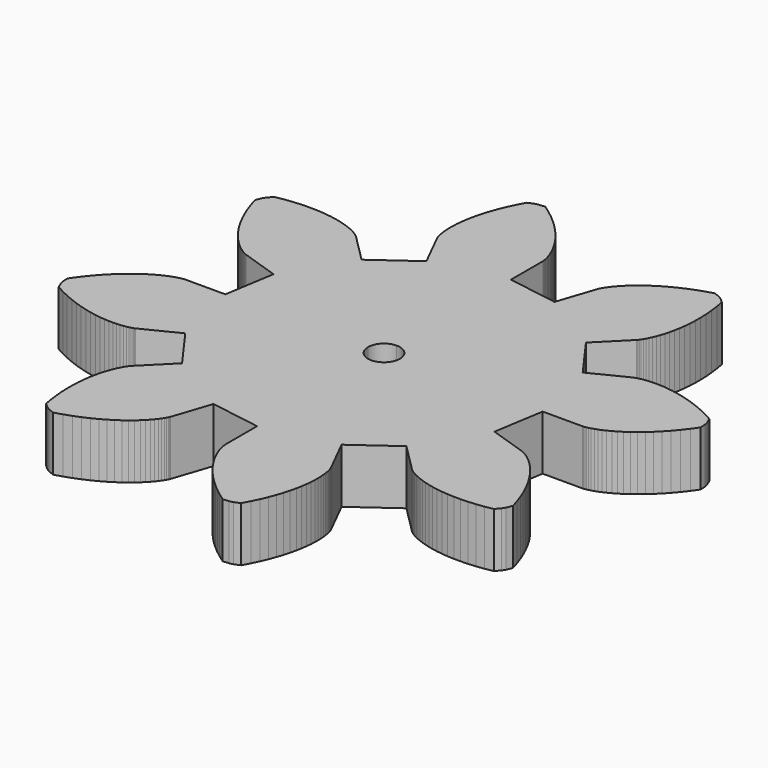
from build123d import *

# Parameters (mm, degrees)
F1_DEPTH = 6.5


with BuildPart() as f1:
    # F0 (on Top) → F1 (new body)
    with BuildSketch(Plane.XY):
        Polygon((17.8882802, -5.9491118), (18.8517022, -0.0001778), (23.5781342, -0.0001778), (23.6180122, 0.0013462), (23.7033562, 0.0094742), (23.8331502, 0.0259842), (24.0053622, 0.0549402), (24.2202462, 0.1019302), (24.4752622, 0.1694942), (24.7716802, 0.2616962), (25.1049282, 0.3815842), (25.4742442, 0.5332222), (25.8778502, 0.7191502), (26.3137142, 0.9439402), (26.7765022, 1.2083542), (27.2657062, 1.5172182), (27.7782782, 1.8725642), (28.3104082, 2.2776942), (28.8587942, 2.7338782), (29.4208962, 3.2451802), (29.9916342, 3.8103302), (30.5664362, 4.4328842), (31.1435242, 5.1151282), (31.7180722, 5.8568082), (32.2847462, 6.6599562), (32.2377562, 7.3863962), (32.1315842, 7.8339442), (31.8491362, 8.5050122), (30.9822342, 8.9683082), (30.1364142, 9.3747082), (29.3149782, 9.7259902), (28.5212282, 10.0252022), (27.7579582, 10.2759002), (27.0272002, 10.4798622), (26.3330182, 10.6424222), (25.6754122, 10.7666282), (25.0581922, 10.8547662), (24.4818662, 10.9114082), (23.9489742, 10.9416342), (23.4595162, 10.9469682), (23.0157782, 10.9317282), (22.6175062, 10.9027722), (22.2647002, 10.8601002), (21.9604082, 10.8108242), (21.7013282, 10.7554522), (21.4877142, 10.7018582), (21.3195662, 10.6505502), (21.1968842, 10.6078782), (21.1181442, 10.5761282), (21.0813142, 10.5598722), (16.8545002, 8.4432902), (13.3297422, 13.3297422), (16.6728902, 16.6728902), (16.6990522, 16.7018462), (16.7539162, 16.7663622), (16.8341802, 16.8697402), (16.9347642, 17.0132502), (17.0531282, 17.1979082), (17.1869862, 17.4265082), (17.3315122, 17.7008282), (17.4818802, 18.0218842), (17.6360582, 18.3899302), (17.7904902, 18.8075062), (17.9393342, 19.2730882), (18.0797962, 19.7887082), (18.2062882, 20.3533502), (18.3183022, 20.9670142), (18.4079642, 21.6297002), (18.4724802, 22.3406462), (18.5098182, 23.0973122), (18.5126122, 23.9007142), (18.4793382, 24.7480582), (18.4049162, 25.6383282), (18.2865522, 26.5697462), (18.1196742, 27.5374862), (17.5728122, 28.0183082), (17.1811442, 28.2606242), (16.5060122, 28.5336742), (15.5662122, 28.2497022), (14.6800062, 27.9380442), (13.8519662, 27.6060662), (13.0787902, 27.2563082), (12.3622562, 26.8935962), (11.7008402, 26.5217402), (11.0942882, 26.1453122), (10.5433622, 25.7678682), (10.0432362, 25.3942342), (9.5951802, 25.0277122), (9.1981782, 24.6710962), (8.8481662, 24.3292122), (8.5438742, 24.0053622), (8.2830162, 23.7023402), (8.0640682, 23.4237022), (7.8837282, 23.1717342), (7.7392022, 22.9497382), (7.6274422, 22.7610162), (7.5448922, 22.6065842), (7.4882502, 22.4894902), (7.4537062, 22.4107502), (7.4399902, 22.3736662), (5.9487562, 17.8882802), (-0.0001778, 18.8517022), (-0.0001778, 23.5781342), (-0.0014478, 23.6180122), (-0.0098298, 23.7033562), (-0.0263398, 23.8331502), (-0.0552958, 24.0053622), (-0.1020318, 24.2202462), (-0.1695958, 24.4752622), (-0.2620518, 24.7716802), (-0.3816858, 25.1049282), (-0.5333238, 25.4742442), (-0.7195058, 25.8778502), (-0.9440418, 26.3137142), (-1.2087098, 26.7765022), (-1.5173198, 27.2657062), (-1.8729198, 27.7782782), (-2.2780498, 28.3104082), (-2.7342338, 28.8587942), (-3.2452818, 29.4208962), (-3.8104318, 29.9916342), (-4.4332398, 30.5664362), (-5.1154838, 31.1435242), (-5.8566558, 31.7180722), (-6.6600578, 32.2847462), (-7.3864978, 32.2377562), (-7.8342236, 32.1315842), (-8.5053424, 31.8491362), (-8.9683844, 30.9822342), (-9.374886, 30.1364142), (-9.7262696, 29.3149782), (-10.0253292, 28.5212282), (-10.2761288, 27.7579582), (-10.4800654, 27.0272002), (-10.6427016, 26.3330182), (-10.7667044, 25.6754122), (-10.8548932, 25.0581922), (-10.9114082, 24.4818662), (-10.9417104, 23.9489742), (-10.9472222, 23.4595162), (-10.9320838, 23.0157782), (-10.9031024, 22.6175062), (-10.8604304, 22.2647002), (-10.8107988, 21.9604082), (-10.7556808, 21.7013282), (-10.7019344, 21.4877142), (-10.6509566, 21.3195662), (-10.6082338, 21.1968842), (-10.5765346, 21.1181442), (-10.5599992, 21.0813142), (-8.443341, 16.8545002), (-13.3298692, 13.3297422), (-16.6729664, 16.6728902), (-16.701897, 16.6990522), (-16.766667, 16.7539162), (-16.870045, 16.8341802), (-17.0133772, 16.9347642), (-17.1980098, 17.0531282), (-17.4267622, 17.1869862), (-17.701006, 17.3315122), (-18.022062, 17.4818802), (-18.3900064, 17.6360582), (-18.807557, 17.7904902), (-19.2733422, 17.9393342), (-19.7887082, 18.0797962), (-20.3537058, 18.2062882), (-20.966938, 18.3183022), (-21.6297764, 18.4079642), (-22.3408494, 18.4724802), (-23.0974138, 18.5098182), (-23.9007904, 18.5126122), (-24.7482614, 18.4793382), (-25.638506, 18.4049162), (-26.570051, 18.2865522), (-27.5374354, 18.1196742), (-28.0183844, 17.5728122), (-28.2609036, 17.1811442), (-28.5337504, 16.5060122), (-28.24988, 15.5662122), (-27.9384252, 14.6800062), (-27.6063202, 13.8519662), (-27.2563082, 13.0787902), (-26.893901, 12.3622562), (-26.5218164, 11.7008402), (-26.145617, 11.0942882), (-25.768046, 10.5433622), (-25.3945898, 10.0432362), (-25.028017, 9.5951802), (-24.6711216, 9.1981782), (-24.3293392, 8.8481662), (-24.0055146, 8.5438742), (-23.7023402, 8.2830162), (-23.4239816, 8.0640682), (-23.1718104, 7.8837282), (-22.9499414, 7.7392022), (-22.7611432, 7.6274422), (-22.6067874, 7.5448922), (-22.489668, 7.4882502), (-22.4111058, 7.4537062), (-22.3739202, 7.4399902), (-17.8884072, 5.9487562), (-18.8516514, -0.0001778), (-23.578312, -0.0001778), (-23.6182916, -0.0014478), (-23.7037372, -0.0098298), (-23.8332772, -0.0263398), (-24.0055146, -0.0552958), (-24.2204748, -0.1020318), (-24.47544, -0.1695958), (-24.7716802, -0.2620518), (-25.1052076, -0.3816858), (-25.4744982, -0.5333238), (-25.878282, -0.7195058), (-26.3137142, -0.9440418), (-26.7767308, -1.2087098), (-27.2659602, -1.5173198), (-27.778583, -1.8729198), (-28.3105098, -2.2780498), (-28.858972, -2.7342338), (-29.421201, -3.2452818), (-29.9917104, -3.8104318), (-30.56636, -4.4332398), (-31.1437528, -5.1154838), (-31.7184024, -5.8566558), (-32.2847716, -6.6600578), (-32.2379086, -7.3864978), (-32.1318128, -7.8342236), (-31.849314, -8.5053424), (-30.9825136, -8.9683844), (-30.1364142, -9.374886), (-29.3151052, -9.7262696), (-28.5213552, -10.0253292), (-27.7579074, -10.2761288), (-27.0275558, -10.4800654), (-26.3330182, -10.6427016), (-25.6756916, -10.7667044), (-25.0583192, -10.8548932), (-24.482298, -10.9114082), (-23.9489996, -10.9417104), (-23.459821, -10.9472222), (-23.016083, -10.9320838), (-22.6178364, -10.9031024), (-22.2650558, -10.8604304), (-21.9605098, -10.8107988), (-21.7014298, -10.7556808), (-21.4878666, -10.7019344), (-21.3197186, -10.6509566), (-21.197062, -10.6082338), (-21.1185252, -10.5765346), (-21.0813142, -10.5599992), (-16.8548558, -8.443341), (-13.3298692, -13.3298692), (-16.6729664, -16.6729664), (-16.6991538, -16.701897), (-16.7542972, -16.766667), (-16.8341802, -16.870045), (-16.9347896, -17.0133772), (-17.053306, -17.1980098), (-17.1869608, -17.4267622), (-17.3316646, -17.701006), (-17.4818802, -18.022062), (-17.636236, -18.3900064), (-17.7905664, -18.807557), (-17.9394104, -19.2733422), (-18.0799486, -19.7887082), (-18.2067454, -20.3537058), (-18.318353, -20.966938), (-18.4079388, -21.6297764), (-18.4727088, -22.3408494), (-18.5098944, -23.0974138), (-18.512663, -23.9007904), (-18.4795922, -24.7482614), (-18.4051702, -25.638506), (-18.2866538, -26.570051), (-18.1199282, -27.5374354), (-17.5728376, -28.0183844), (-17.1814744, -28.2609036), (-16.5062408, -28.5337504), (-15.5664154, -28.24988), (-14.6803364, -27.9384252), (-13.8521186, -27.6063202), (-13.0790442, -27.2563082), (-12.3624848, -26.893901), (-11.701018, -26.5218164), (-11.0946692, -26.145617), (-10.5434638, -25.768046), (-10.0432108, -25.3945898), (-9.595358, -25.028017), (-9.198483, -24.6711216), (-8.848471, -24.3293392), (-8.5438996, -24.0055146), (-8.2834988, -23.7023402), (-8.064373, -23.4239816), (-7.8838552, -23.1718104), (-7.7391514, -22.9499414), (-7.6275438, -22.7611432), (-7.5447398, -22.6067874), (-7.4883518, -22.489668), (-7.4538078, -22.4111058), (-7.4400918, -22.3739202), (-5.9491118, -17.8884072), (-0.0001778, -18.8516514), (-0.0001778, -23.578312), (0.0013462, -23.6182916), (0.0094742, -23.7037372), (0.0259842, -23.8332772), (0.0549402, -24.0055146), (0.1019302, -24.2204748), (0.1694942, -24.47544), (0.2616962, -24.7716802), (0.3815842, -25.1052076), (0.5332222, -25.4744982), (0.7191502, -25.878282), (0.9439402, -26.3137142), (1.2083542, -26.7767308), (1.5172182, -27.2659602), (1.8725642, -27.778583), (2.2776942, -28.3105098), (2.7338782, -28.858972), (3.2451802, -29.421201), (3.8103302, -29.9917104), (4.4328842, -30.56636), (5.1151282, -31.1437528), (5.8568082, -31.7184024), (6.6599562, -32.2847716), (7.3863962, -32.2379086), (7.8339442, -32.1318128), (8.5050122, -31.849314), (8.9683082, -30.9825136), (9.3747082, -30.1364142), (9.7259902, -29.3151052), (10.0252022, -28.5213552), (10.2759002, -27.7579074), (10.4798622, -27.0275558), (10.6424222, -26.3330182), (10.7666282, -25.6756916), (10.8547662, -25.0583192), (10.9114082, -24.482298), (10.9416342, -23.9489996), (10.9469682, -23.459821), (10.9317282, -23.016083), (10.9027722, -22.6178364), (10.8601002, -22.2650558), (10.8108242, -21.9605098), (10.7554522, -21.7014298), (10.7018582, -21.4878666), (10.6505502, -21.3197186), (10.6078782, -21.197062), (10.5761282, -21.1185252), (10.5598722, -21.0813142), (8.4432902, -16.8548558), (13.3297422, -13.3298692), (16.6728902, -16.6729664), (16.7018462, -16.6991538), (16.7663622, -16.7542972), (16.8697402, -16.8341802), (17.0132502, -16.9347896), (17.1979082, -17.053306), (17.4265082, -17.1869608), (17.7008282, -17.3316646), (18.0218842, -17.4818802), (18.3899302, -17.636236), (18.8075062, -17.7905664), (19.2730882, -17.9394104), (19.7887082, -18.0799486), (20.3533502, -18.2067454), (20.9670142, -18.318353), (21.6297002, -18.4079388), (22.3406462, -18.4727088), (23.0973122, -18.5098944), (23.9007142, -18.512663), (24.7480582, -18.4795922), (25.6383282, -18.4051702), (26.5697462, -18.2866538), (27.5374862, -18.1199282), (28.0183082, -17.5728376), (28.2606242, -17.1814744), (28.5336742, -16.5062408), (28.2497022, -15.5664154), (27.9380442, -14.6803364), (27.6060662, -13.8521186), (27.2563082, -13.0790442), (26.8935962, -12.3624848), (26.5217402, -11.701018), (26.1453122, -11.0946692), (25.7678682, -10.5434638), (25.3942342, -10.0432108), (25.0277122, -9.595358), (24.6710962, -9.198483), (24.3292122, -8.848471), (24.0053622, -8.5438996), (23.7023402, -8.2834988), (23.4237022, -8.064373), (23.1717342, -7.8838552), (22.9497382, -7.7391514), (22.7610162, -7.6275438), (22.6065842, -7.5447398), (22.4894902, -7.4883518), (22.4107502, -7.4538078), (22.3736662, -7.4400918), align=None)
        with BuildLine():
            ThreePointArc((1.8899617692, 0), (1.8899617671, -8.89e-05), (1.8899617608, -0.0001778))
            ThreePointArc((1.8899617608, -0.0001778), (1.3362790537, -1.3365305009), (-0.0001778, -1.8899617608))
            ThreePointArc((-0.0001778, -1.8899617608), (-1.3364047832, -1.3364047832), (-1.8899617608, -0.0001778))
            ThreePointArc((-1.8899617608, -0.0001778), (-1.3365305009, 1.3362790537), (-0.0001778, 1.8899617608))
            ThreePointArc((-0.0001778, 1.8899617608), (1.3363419199, 1.3364676435), (1.8899617692, 0))
        make_face(mode=Mode.SUBTRACT)
    extrude(amount=F1_DEPTH)


solid = f1.part
